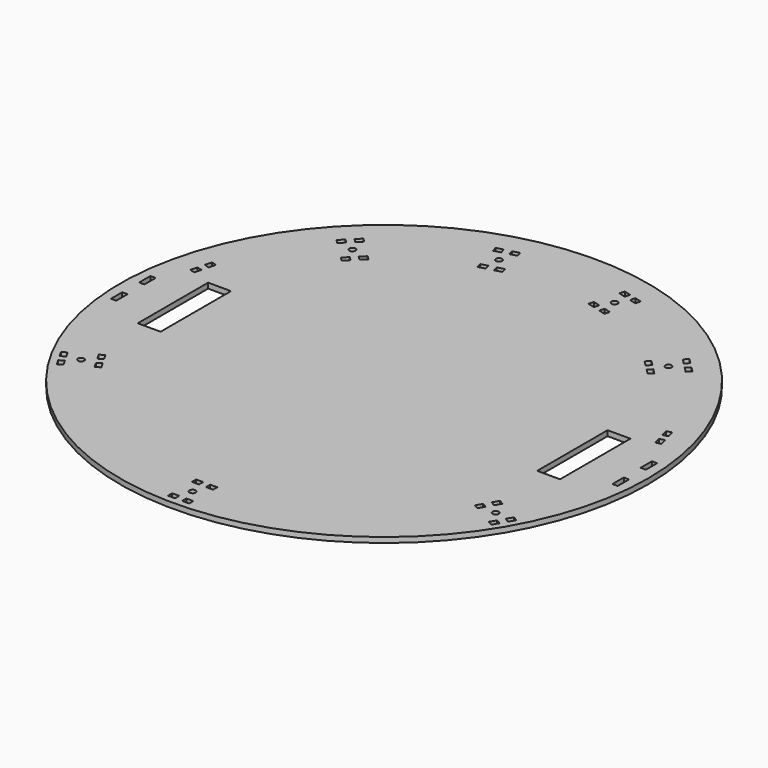
from build123d import *

# Parameters (mm, degrees)
F0_R     = 150
F0_W     = 3
F0_H     = 8
F0_W_2   = 13
F0_H_2   = 50
F1_DEPTH = 3
F2_R     = 1.75
F2_W     = 4
F2_H     = 3
F3_DEPTH = 3


with BuildPart() as f1:
    # F0 (on Top) → F1 (new body)
    with BuildSketch(Plane.XY):
        Circle(F0_R)
        with Locations((-142.5, -10)):
            Rectangle(F0_W, F0_H, mode=Mode.SUBTRACT)
        with Locations((142.5, -10)):
            Rectangle(F0_W, F0_H, mode=Mode.SUBTRACT)
        with Locations((-142.5, 10)):
            Rectangle(F0_W, F0_H, mode=Mode.SUBTRACT)
        with Locations((-113.5, 0)):
            Rectangle(F0_W_2, F0_H_2, mode=Mode.SUBTRACT)
        with Locations((113.5, 0)):
            Rectangle(F0_W_2, F0_H_2, mode=Mode.SUBTRACT)
        with Locations((142.5, 10)):
            Rectangle(F0_W, F0_H, mode=Mode.SUBTRACT)
    extrude(amount=-F1_DEPTH)

    # F2 (on face) → F3 (cut, through all)
    with BuildSketch(Plane.XY):
        Polygon((-37.390061, 131.8142), (-41.253764, 130.778924), (-40.477307, 127.881146), (-36.613604, 128.916423), align=None)
        Polygon((-32.21368, 112.495684), (-32.990137, 115.393461), (-36.85384, 114.358185), (-36.077383, 111.460407), align=None)
        with Locations((-32.870019, 122.67258)):
            Circle(F2_R)
        Polygon((-28.886197, 130.986975), (-29.662654, 133.884752), (-33.526358, 132.849476), (-32.7499, 129.951699), align=None)
        Polygon((-25.26273, 117.464013), (-29.126434, 116.428737), (-28.349977, 113.53096), (-24.486273, 114.566236), align=None)
        with Locations((-117.779455, -68)):
            Circle(F2_R)
        Polygon((-108.119201, -64.732051), (-110.717277, -66.232051), (-108.717277, -69.696152), (-106.119201, -68.196152), align=None)
        Polygon((-120.841633, -76.696152), (-122.841633, -73.232051), (-125.439709, -74.732051), (-123.439709, -78.196152), align=None)
        Polygon((-114.717277, -59.303848), (-112.717277, -62.767949), (-110.119201, -61.267949), (-112.119201, -57.803848), align=None)
        Polygon((-127.439709, -71.267949), (-124.841633, -69.767949), (-126.841633, -66.303848), (-129.439709, -67.803848), align=None)
        Polygon((108.717277, -69.696152), (110.717277, -66.232051), (108.119201, -64.732051), (106.119201, -68.196152), align=None)
        Polygon((127.439709, -71.267949), (129.439709, -67.803848), (126.841633, -66.303848), (124.841633, -69.767949), align=None)
        Polygon((112.717277, -62.767949), (114.717277, -59.303848), (112.119201, -57.803848), (110.119201, -61.267949), align=None)
        with Locations((117.779455, -68)):
            Circle(F2_R)
        Polygon((123.439709, -78.196152), (125.439709, -74.732051), (122.841633, -73.232051), (120.841633, -76.696152), align=None)
        with Locations((0, -136)):
            Circle(F2_R)
        with Locations((4, -127.5)):
            Rectangle(F2_W, F2_H)
        with Locations((-4, -127.5)):
            Rectangle(F2_W, F2_H)
        with Locations((4, -144.5)):
            Rectangle(F2_W, F2_H)
        with Locations((-4, -144.5)):
            Rectangle(F2_W, F2_H)
        Polygon((-89.095454, 80.610173), (-86.974134, 78.488853), (-84.145707, 81.31728), (-86.267027, 83.4386), align=None)
        Polygon((-80.610173, 89.095454), (-83.4386, 86.267027), (-81.31728, 84.145707), (-78.488853, 86.974134), align=None)
        with Locations((-89.802561, 89.802561)):
            Circle(F2_R)
        Polygon((-101.11627, 92.630988), (-98.994949, 90.509668), (-96.166522, 93.338095), (-98.287843, 95.459415), align=None)
        Polygon((-95.459415, 98.287843), (-93.338095, 96.166522), (-90.509668, 98.994949), (-92.630988, 101.11627), align=None)
        Polygon((-133.884752, 29.662654), (-130.986975, 28.886197), (-129.951699, 32.7499), (-132.849476, 33.526358), align=None)
        Polygon((-130.778924, 41.253764), (-131.8142, 37.390061), (-128.916423, 36.613604), (-127.881146, 40.477307), align=None)
        Polygon((33.526358, 132.849476), (29.662654, 133.884752), (28.886197, 130.986975), (32.7499, 129.951699), align=None)
        Polygon((40.477307, 127.881146), (41.253764, 130.778924), (37.390061, 131.8142), (36.613604, 128.916423), align=None)
        Polygon((28.349977, 113.53096), (29.126434, 116.428737), (25.26273, 117.464013), (24.486273, 114.566236), align=None)
        Polygon((36.85384, 114.358185), (32.990137, 115.393461), (32.21368, 112.495684), (36.077383, 111.460407), align=None)
        with Locations((32.870019, 122.67258)):
            Circle(F2_R)
        Polygon((93.338095, 96.166522), (95.459415, 98.287843), (92.630988, 101.11627), (90.509668, 98.994949), align=None)
        Polygon((101.11627, 92.630988), (98.287843, 95.459415), (96.166522, 93.338095), (98.994949, 90.509668), align=None)
        Polygon((83.4386, 86.267027), (80.610173, 89.095454), (78.488853, 86.974134), (81.31728, 84.145707), align=None)
        Polygon((89.095454, 80.610173), (86.267027, 83.4386), (84.145707, 81.31728), (86.974134, 78.488853), align=None)
        with Locations((89.802561, 89.802561)):
            Circle(F2_R)
        Polygon((130.778924, 41.253764), (127.881146, 40.477307), (128.916423, 36.613604), (131.8142, 37.390061), align=None)
        Polygon((133.884752, 29.662654), (132.849476, 33.526358), (129.951699, 32.7499), (130.986975, 28.886197), align=None)
    extrude(amount=-F3_DEPTH, mode=Mode.SUBTRACT)


solid = f1.part
